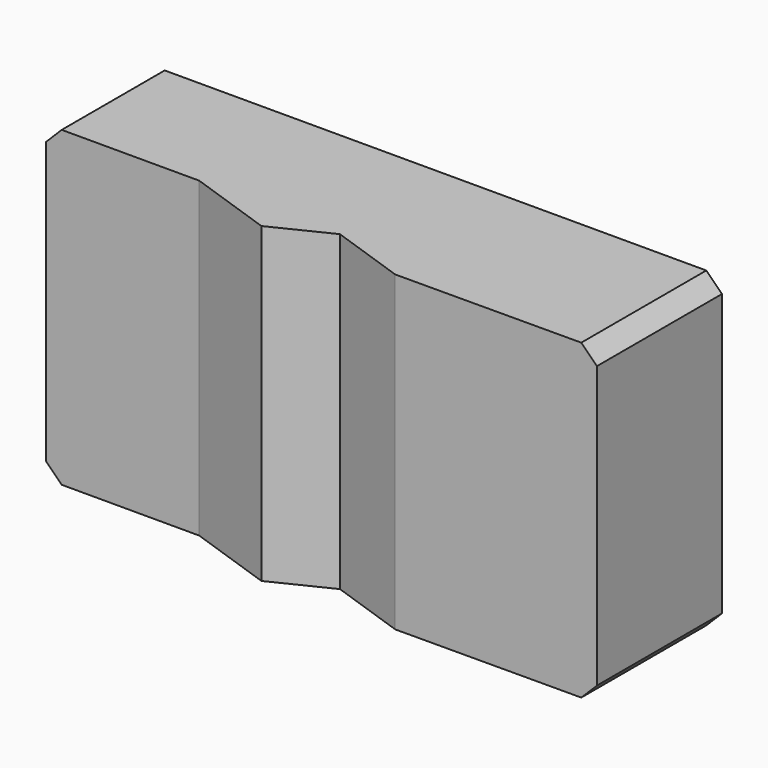
from build123d import *

# Parameters (mm, degrees)
F1_DEPTH = 60
F2_SIZE  = 3


with BuildPart() as f1:
    # F0 (on Top) → F1 (new body)
    with BuildSketch(Plane.XY):
        Polygon((57.207322, 5.764956), (-52.792678, 5.764956), (-52.792678, -18.955044), (-23.39, -18.955044), (-6.900156, -24.632953), (3.948288, -19.341813), (18.594371, -24.384864), (57.207322, -24.235044), align=None)
    extrude(amount=F1_DEPTH)

    # F2
    f2_edges = [f1.edges().sort_by_distance(p)[0] for p in [
        (-52.792678, -6.595044, 60),
        (-52.792678, -6.595044, 0),
        (57.207322, -9.235044, 60),
        (57.207322, -9.235044, 0),
    ]]
    chamfer(f2_edges, length=F2_SIZE)


solid = f1.part
